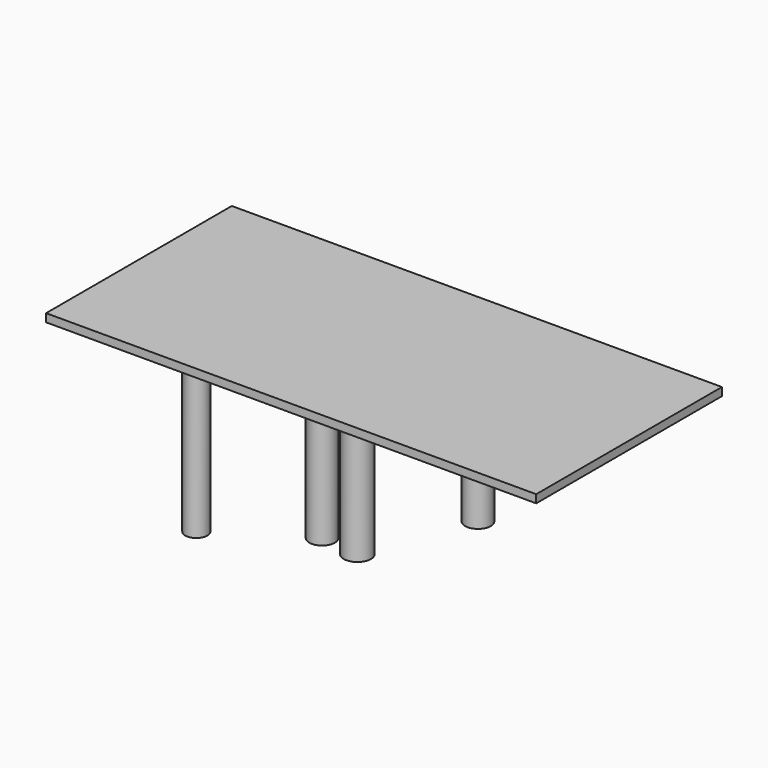
from build123d import *

# Parameters (mm, degrees)
F0_R     = 10.047134
F1_DEPTH = 178.816
F2_R     = 10.047128
F3_DEPTH = 131.064
F4_R     = 8.627773
F5_DEPTH = 125.984
F6_R     = 10.676004
F7_DEPTH = 101.6
F8_W     = 385.136962
F8_H     = 182.416007
F9_DEPTH = 6.35


with BuildPart() as f1:
    # F0 (on Top) → F1 (new body)
    with BuildSketch(Plane.XY):
        with Locations((-65.035373, 58.721106)):
            Circle(F0_R)
    extrude(amount=-F1_DEPTH)


with BuildPart() as f3:
    # F2 (on Top) → F3 (new body)
    with BuildSketch(Plane.XY):
        with Locations((53.187836, 64.124458)):
            Circle(F2_R)
    extrude(amount=-F3_DEPTH)


with BuildPart() as f5:
    # F4 (on Top) → F5 (new body)
    with BuildSketch(Plane.XY):
        with Locations((-67.22834, -62.047824)):
            Circle(F4_R)
    extrude(amount=-F5_DEPTH)


with BuildPart() as f7:
    # F6 (on Top) → F7 (new body)
    with BuildSketch(Plane.XY):
        with Locations((57.837021, -60.163338)):
            Circle(F6_R)
    extrude(amount=-F7_DEPTH)


with BuildPart() as f9:
    # F8 (on Top) → F9 (new body)
    with BuildSketch(Plane.XY):
        with Locations((30.828655, -0.254355)):
            Rectangle(F8_W, F8_H)
    extrude(amount=F9_DEPTH)


solid = Compound([f1.part, f3.part, f5.part, f7.part, f9.part])
